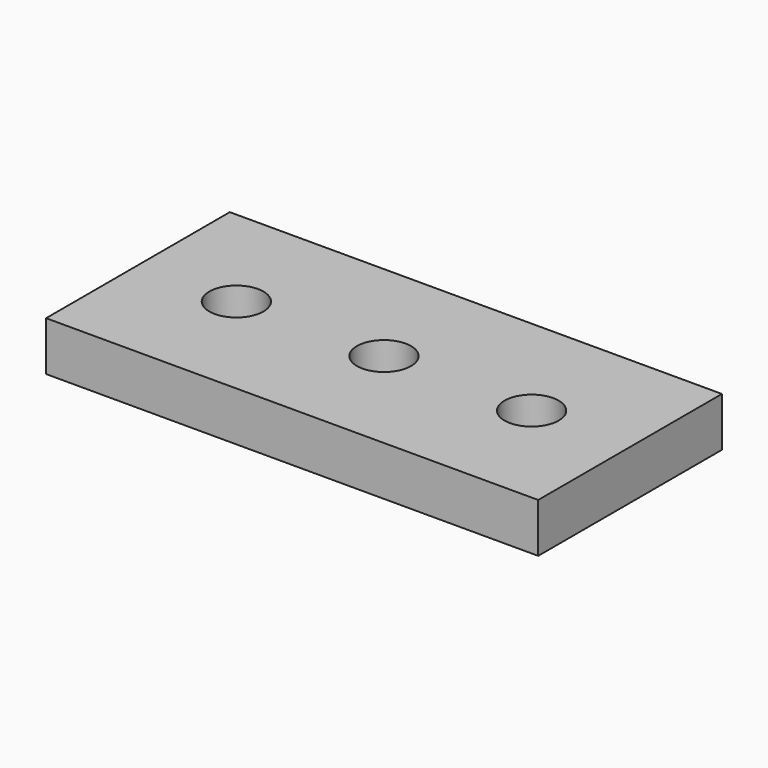
from build123d import *

# Parameters (mm, degrees)
CYLINDER001_R     = 1.65
CYLINDER001_DEPTH = 10
CYLINDER_R        = 1.65
CYLINDER_DEPTH    = 10
CYLINDER002_R     = 1.65
CYLINDER002_DEPTH = 10
BOX_W             = 30
BOX_H             = 14
BOX_DEPTH         = 3


with BuildPart() as cylinder001:
    # Cylinder001 → Cylinder001 (new body)
    with BuildSketch(Plane(origin=(-9, 7, 0), x_dir=(1, 0, 0), z_dir=(0, 0, 1))):
        Circle(CYLINDER001_R)
    extrude(amount=CYLINDER001_DEPTH)


with BuildPart() as cylinder:
    # Cylinder → Cylinder (new body)
    with BuildSketch(Plane(origin=(0, 7, 0), x_dir=(1, 0, 0), z_dir=(0, 0, 1))):
        Circle(CYLINDER_R)
    extrude(amount=CYLINDER_DEPTH)


with BuildPart() as fusion:
    # Cylinder002 → Cylinder002 (new body)
    with BuildSketch(Plane(origin=(9, 7, 0), x_dir=(1, 0, 0), z_dir=(0, 0, 1))):
        Circle(CYLINDER002_R)
    extrude(amount=CYLINDER002_DEPTH)

    # Fusion: union Cylinder001, Cylinder
    add(cylinder001.part)
    add(cylinder.part)


with BuildPart() as power_connector:
    # Box → Box (new body)
    with BuildSketch(Plane(origin=(-15, 0, 0), x_dir=(1, 0, 0), z_dir=(0, 0, 1))):
        with Locations((15, 7)):
            Rectangle(BOX_W, BOX_H)
    extrude(amount=BOX_DEPTH)

    # Cut: cut Fusion
    add(fusion.part, mode=Mode.SUBTRACT)


solid = power_connector.part
